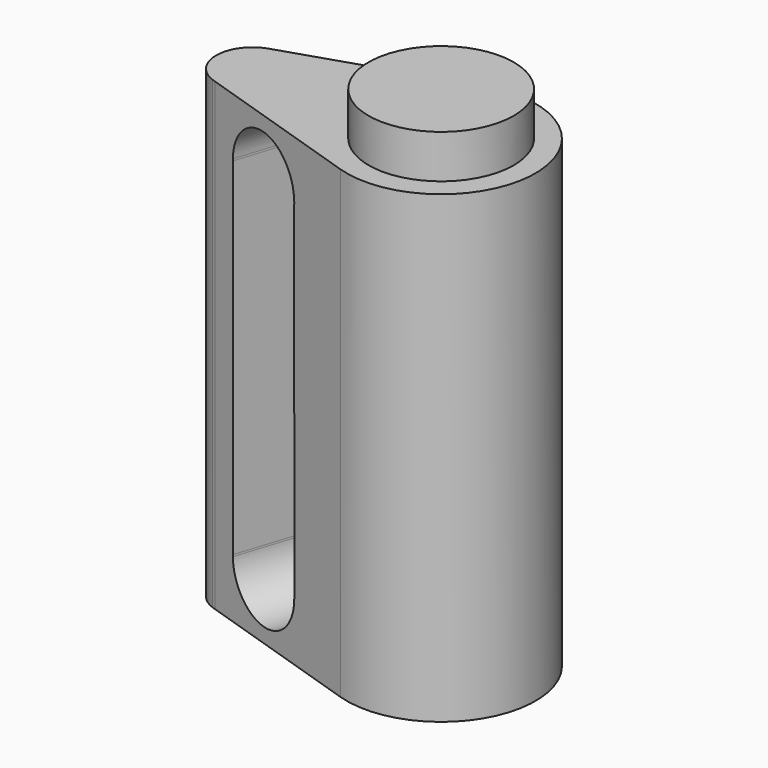
from build123d import *

# Parameters (mm, degrees)
F1_DEPTH = 4064
F3_DEPTH = 1865.093828
F4_R     = 635
F5_DEPTH = 381


with BuildPart() as f1:
    # F0 (on Top) → F1 (new body)
    with BuildSketch(Plane.XY):
        with BuildLine():
            Line((-1733.158511, -306.68588), (-254.208739, -785.384089))
            ThreePointArc((-254.208739, -785.384089), (825.499995, -0.092015), (-254.033646, 785.44074))
            Line((-254.033646, 785.44074), (-1754.903868, 300.01706))
            ThreePointArc((-1754.903868, 300.01706), (-1968.462055, 4.908515), (-1764.129552, -296.661346))
            Line((-1764.129552, -296.661346), (-1733.158511, -306.68588))
        make_face()
    extrude(amount=F1_DEPTH)

    # F2 (on face) → F3 (cut, through all)
    with BuildSketch(Plane(origin=(-254.208739, -785.384089, 0), x_dir=(0.951404, -0.307945, 0), z_dir=(-0.307945, -0.951404, 0))):
        with BuildLine():
            Line((-571.238176, 3564.947605), (-571.237561, 3547.078581))
            ThreePointArc((-571.237561, 3547.078581), (-571.133096, 3556.013097), (-571.238176, 3564.947605))
        make_face()
        with BuildLine():
            Line((-571.133096, 508.013097), (-571.237561, 3547.078581))
            Line((-571.237561, 3547.078581), (-571.238176, 3564.947605))
            ThreePointArc((-571.238176, 3564.947605), (-952.502915, 3936.999821), (-1333.044669, 3564.208155))
            Line((-1333.044669, 3564.208155), (-1333.044669, 3547.791845))
            Line((-1333.044669, 3547.791845), (-1333.044669, 516.208155))
            Line((-1333.044669, 516.208155), (-1333.044669, 499.791845))
            ThreePointArc((-1333.044669, 499.791845), (-948.022232, 127.022178), (-571.133096, 508.013097))
        make_face()
        with BuildLine():
            Line((-1333.044669, 3547.791845), (-1333.044669, 3564.208155))
            ThreePointArc((-1333.044669, 3564.208155), (-1333.133096, 3556), (-1333.044669, 3547.791845))
        make_face()
        with BuildLine():
            ThreePointArc((-1333.044669, 516.208155), (-1333.133096, 508), (-1333.044669, 499.791845))
            Line((-1333.044669, 499.791845), (-1333.044669, 516.208155))
        make_face()
    extrude(amount=-F3_DEPTH, mode=Mode.SUBTRACT)

    # F4 (on face) → F5 (join)
    with BuildSketch(Plane.XY.offset(4064)):
        Circle(F4_R)
    extrude(amount=F5_DEPTH)


solid = f1.part
